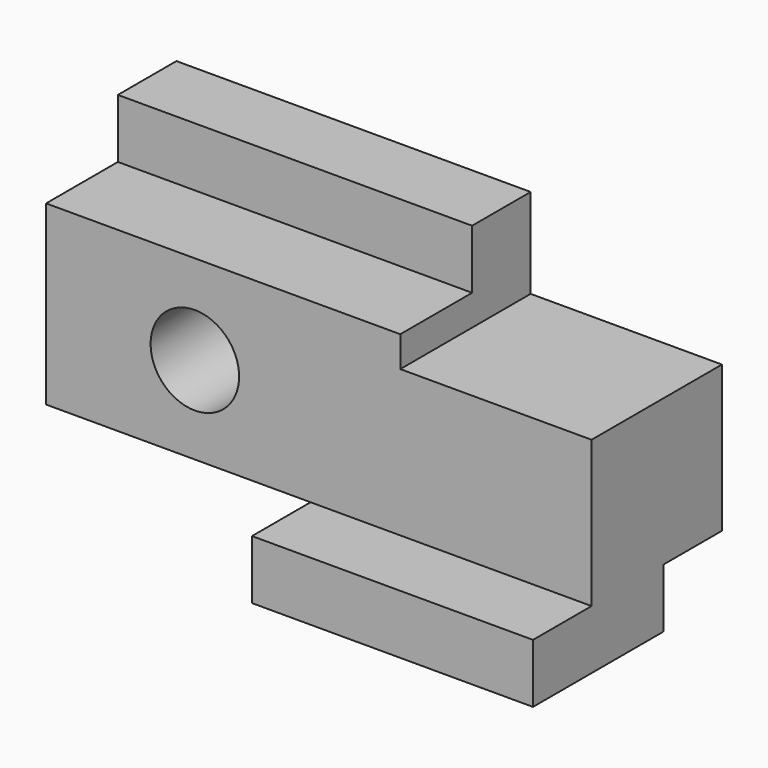
from build123d import *

# Parameters (mm, degrees)
F0_W     = 60.452
F0_H     = 12.7
F1_DEPTH = 35.052
F0_W_2   = 76.2
F2_DEPTH = 15.748
F3_DEPTH = 19.304
F4_DEPTH = 15.748
F6_D     = 19.05


with BuildPart() as f1:
    # F0 (on Front) → F1 (new body)
    with BuildSketch(Plane.XZ):
        with Locations((30.226, -6.35)):
            Rectangle(F0_W, F0_H)
    extrude(amount=F1_DEPTH)



with BuildPart() as f2:
    # F0 (on Front) → F2 (new body)
    with BuildSketch(Plane.XZ):
        with Locations((-18.796, 44.45)):
            Rectangle(F0_W_2, F0_H)
    extrude(amount=-F2_DEPTH)


with BuildPart() as f1_1:
    add(f1.part)

    add(f2.part)  # F3 merges F2
    # F0 (on Front) → F3 (join)
    with BuildSketch(Plane.XZ):
        Polygon((19.304, 38.1), (-56.896, 38.1), (-56.896, 0), (0, 0), (60.452, 0), (60.452, 31.496), (19.304, 31.496), align=None)
    extrude(amount=F3_DEPTH)

    # F0 (on Front) → F4 (join)
    with BuildSketch(Plane.XZ):
        Polygon((19.304, 38.1), (-56.896, 38.1), (-56.896, 0), (0, 0), (60.452, 0), (60.452, 31.496), (19.304, 31.496), align=None)
    extrude(amount=-F4_DEPTH)

    # F6 (through all)
    with Locations(Plane.XZ.offset(19.304)):
        with Locations((-24.892, 18.796)):
            Hole(F6_D / 2)


solid = f1_1.part
